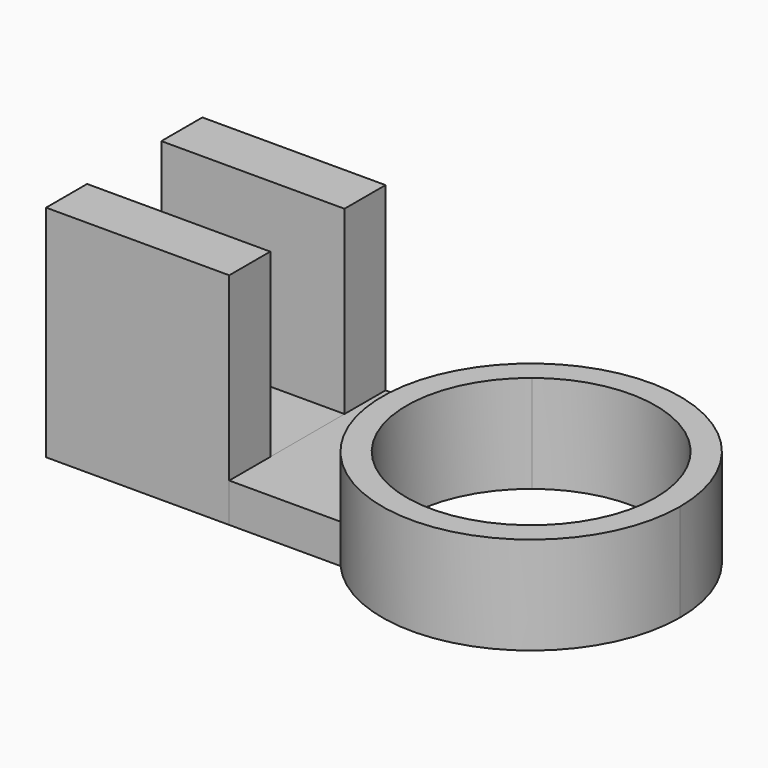
from build123d import *

# Parameters (mm, degrees)
F0_W     = 3.75
F0_H     = 1.05
F1_DEPTH = 4.5
F0_H_2   = 1.9
F2_DEPTH = 0.8
F3_DEPTH = 0.8
F4_DEPTH = 2


with BuildPart() as f1:
    # F0 (on Top) → F1 (new body)
    with BuildSketch(Plane.XY):
        with Locations((-1.875, 3.475)):
            Rectangle(F0_W, F0_H)
        with Locations((-1.875, 0.525)):
            Rectangle(F0_W, F0_H)
    extrude(amount=F1_DEPTH)


with BuildPart() as f2:
    # F0 (on Top) → F2 (new body)
    with BuildSketch(Plane.XY):
        with Locations((-1.875, 2)):
            Rectangle(F0_W, F0_H_2)
    extrude(amount=F2_DEPTH)


with BuildPart() as f3:
    # F0 (on Top) → F3 (new body)
    with BuildSketch(Plane.XY):
        with BuildLine():
            Line((0, 1.05), (0, 0))
            Line((0, 0), (2.279213, 0))
            ThreePointArc((2.279213, 0), (1.531929, 2), (2.279213, 4))
            Line((2.279213, 4), (0, 4))
            Line((0, 4), (0, 2.95))
            Line((0, 2.95), (0, 1.05))
        make_face()
    extrude(amount=F3_DEPTH)

    # F0 (on Top) → F4 (join)
    with BuildSketch(Plane.XY):
        with BuildLine():
            Line((3, 0), (2.279213, 0))
            ThreePointArc((2.279213, 0), (5.649454, -0.857077), (7.631929, 2))
            ThreePointArc((7.631929, 2), (5.649454, 4.857077), (2.279213, 4))
            Line((2.279213, 4), (3, 4))
            ThreePointArc((3, 4), (5.692915, 4.295258), (7.131929, 2))
            ThreePointArc((7.131929, 2), (5.692915, -0.295258), (3, 0))
        make_face()
        with BuildLine():
            ThreePointArc((2.279213, 4), (1.531929, 2), (2.279213, 0))
            Line((2.279213, 0), (3, 0))
            ThreePointArc((3, 0), (2.031929, 2), (3, 4))
            Line((3, 4), (2.279213, 4))
        make_face()
    extrude(amount=F4_DEPTH)


solid = Compound([f1.part, f2.part, f3.part])
